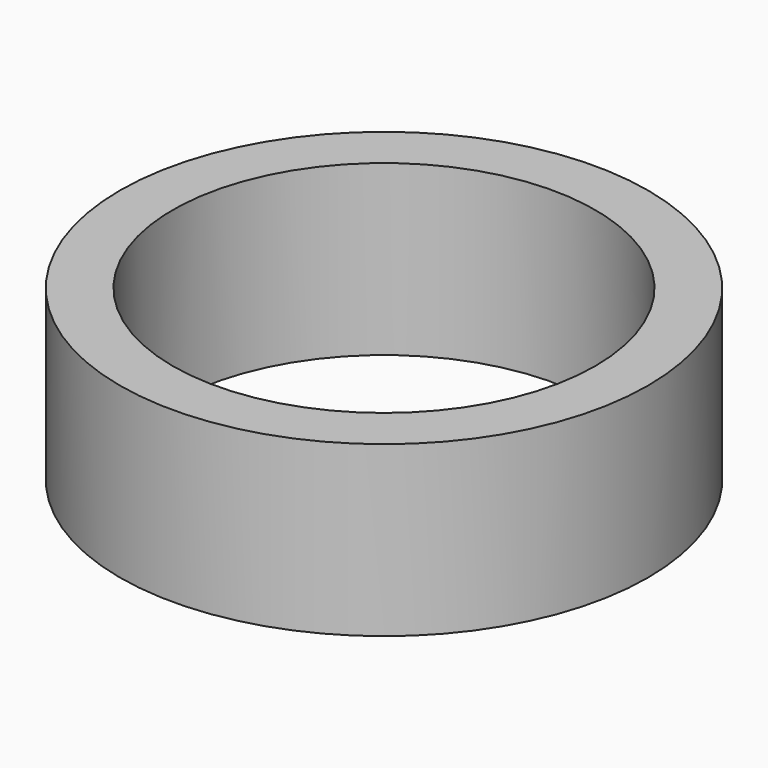
from build123d import *

# Parameters (mm, degrees)
SKETCH_1_R     = 25
PAD_1_DEPTH    = 16
SKETCH_2_R     = 20
POCKET_2_DEPTH = 16.001


with BuildPart() as part:
    # Sketch_1 → Pad_1 (new body)
    with BuildSketch(Plane.XY):
        Circle(SKETCH_1_R)
    extrude(amount=PAD_1_DEPTH)

    # Sketch_2 (on Face3 of Pad_1) → Pocket_2 (cut, through all)
    with BuildSketch(Plane.XY.offset(16)):
        Circle(SKETCH_2_R)
    extrude(amount=-POCKET_2_DEPTH, mode=Mode.SUBTRACT)


solid = part.part
